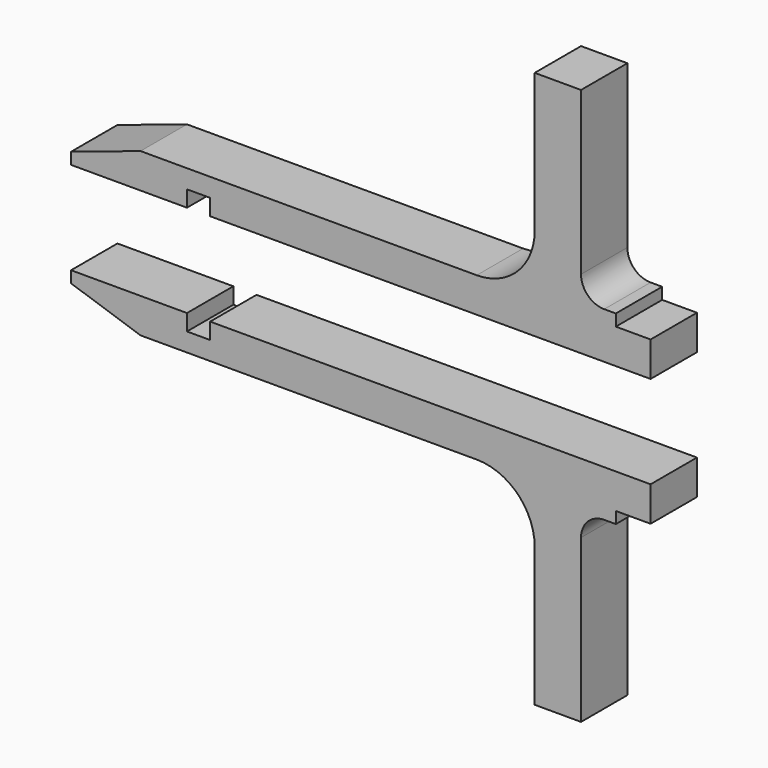
from build123d import *

# Parameters (mm, degrees)
F1_DEPTH = 25


with BuildPart() as f1:
    # F0 (on Front) → F1 (new body)
    with BuildSketch(Plane.XZ):
        with BuildLine():
            Line((-65, 20), (125, 20))
            Line((125, 20), (125, 35))
            Line((125, 35), (110, 35))
            Line((110, 35), (110, 40))
            Line((110, 40), (105, 40))
            ThreePointArc((105, 40), (97.928932, 42.928932), (95, 50))
            Line((95, 50), (95, 120))
            Line((95, 120), (75, 120))
            Line((75, 120), (75, 60))
            ThreePointArc((75, 60), (67.67767, 42.32233), (50, 35))
            Line((50, 35), (-95, 35))
            Line((-95, 35), (-125, 25))
            Line((-125, 25), (-125, 20))
            Line((-125, 20), (-75, 20))
            Line((-75, 20), (-75, 27))
            Line((-75, 27), (-65, 27))
            Line((-65, 27), (-65, 20))
        make_face()
        with BuildLine():
            ThreePointArc((95, -50), (97.928932, -42.928932), (105, -40))
            Line((105, -40), (110, -40))
            Line((110, -40), (110, -35))
            Line((110, -35), (125, -35))
            Line((125, -35), (125, -20))
            Line((125, -20), (-65, -20))
            Line((-65, -20), (-65, -27))
            Line((-65, -27), (-75, -27))
            Line((-75, -27), (-75, -20))
            Line((-75, -20), (-125, -20))
            Line((-125, -20), (-125, -25))
            Line((-125, -25), (-95, -35))
            Line((-95, -35), (50, -35))
            ThreePointArc((50, -35), (67.67767, -42.32233), (75, -60))
            Line((75, -60), (75, -120))
            Line((75, -120), (95, -120))
            Line((95, -120), (95, -50))
        make_face()
    extrude(amount=F1_DEPTH)


solid = f1.part
